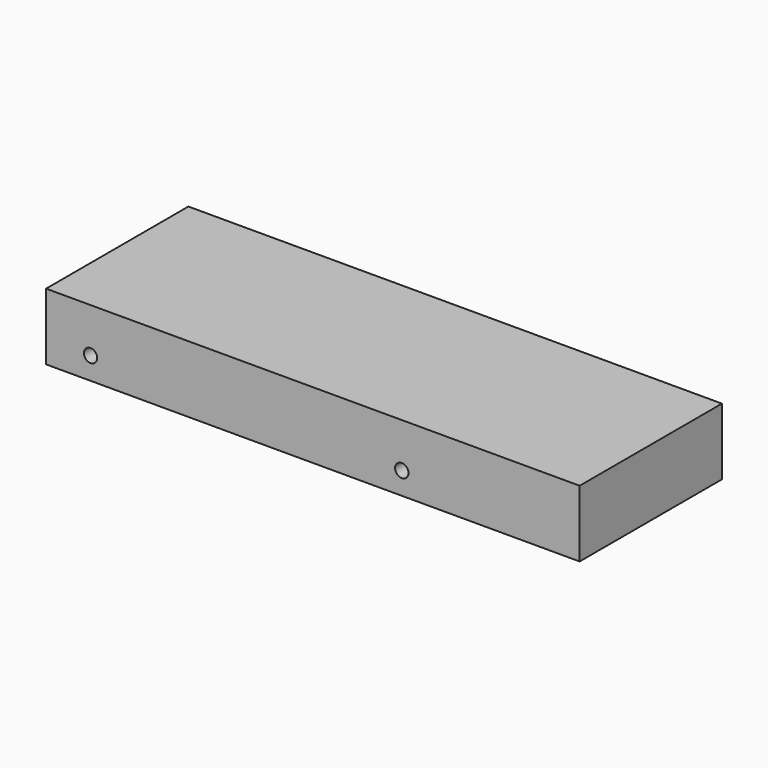
from build123d import *

# Parameters (mm, degrees)
F0_W     = 50.8
F0_H     = 25.4
F1_DEPTH = 19.05
F2_R     = 1.905
F3_DEPTH = 76.2


with BuildPart() as f1:
    # F0 (on Top) → F1 (new body)
    with BuildSketch(Plane.XY):
        Polygon((-46.104201, 50.8), (-46.104201, 0), (106.295799, 0), (106.295799, 25.4), (55.495799, 25.4), (55.495799, 50.8), align=None)
        with Locations((80.895799, 38.1)):
            Rectangle(F0_W, F0_H)
    extrude(amount=F1_DEPTH)

    # F2 (on face) → F3 (cut)
    with BuildSketch(Plane.XZ):
        with Locations((-33.404201, 6.35)):
            Circle(F2_R)
        with Locations((55.495799, 6.35)):
            Circle(F2_R)
    extrude(amount=-F3_DEPTH, mode=Mode.SUBTRACT)


solid = f1.part
